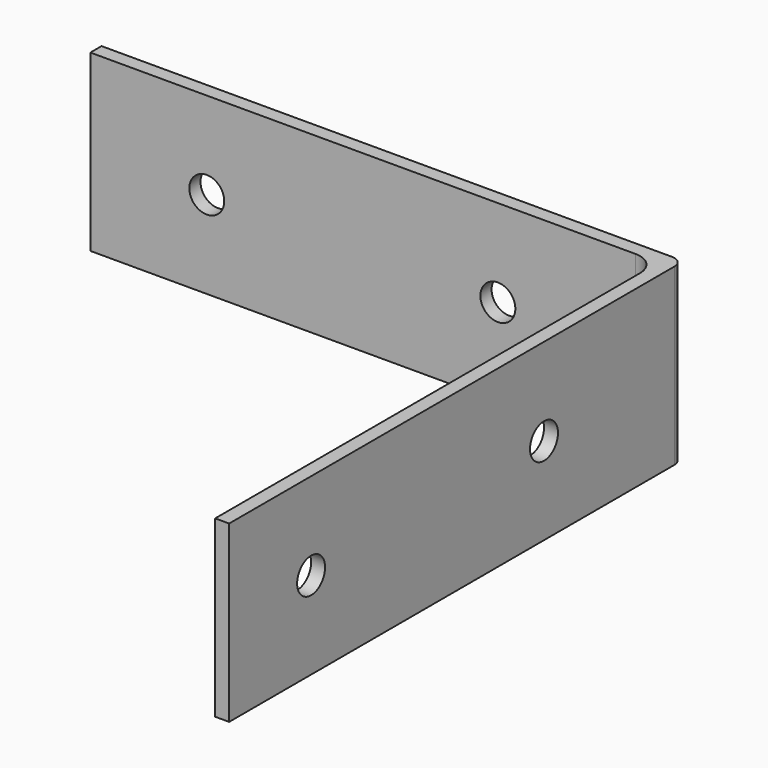
from build123d import *

# Parameters (mm, degrees)
PAD_DEPTH       = 15
SKETCH001_R     = 1.5
POCKET_DEPTH    = 1.201
SKETCH002_R     = 1.5
POCKET001_DEPTH = 1.201
FILLET_R        = 2
FILLET001_R     = 1


with BuildPart() as part:
    # Sketch → Pad (new body)
    with BuildSketch(Plane.XY):
        Polygon((-50, 0), (0, 0), (0, -48.8), (-1.2, -48.8), (-1.2, -1.2), (-50, -1.2), align=None)
    extrude(amount=PAD_DEPTH)

    # Sketch001 (on Face5 of Pad) → Pocket (cut, through all)
    with BuildSketch(Plane.XZ.offset(1.2)):
        with Locations((-40, 7.5)):
            Circle(SKETCH001_R)
        with Locations((-15, 7.5)):
            Circle(SKETCH001_R)
    extrude(amount=-POCKET_DEPTH, mode=Mode.SUBTRACT)

    # Sketch002 (on Face10 of Pocket) → Pocket001 (cut, through all)
    with BuildSketch(Plane(origin=(-1.2, 0, 0), x_dir=(0, -1, 0), z_dir=(-1, 0, 0))):
        with Locations((15, 7.5)):
            Circle(SKETCH002_R)
        with Locations((40, 7.5)):
            Circle(SKETCH002_R)
    extrude(amount=-POCKET001_DEPTH, mode=Mode.SUBTRACT)

    # Fillet
    fillet_edges = [part.edges().sort_by_distance(p)[0] for p in [
        (-1.2, -1.2, 7.5),
    ]]
    fillet(fillet_edges, radius=FILLET_R)

    # Fillet001
    fillet001_edges = [part.edges().sort_by_distance(p)[0] for p in [
        (0, 0, 7.5),
    ]]
    fillet(fillet001_edges, radius=FILLET001_R)


solid = part.part
